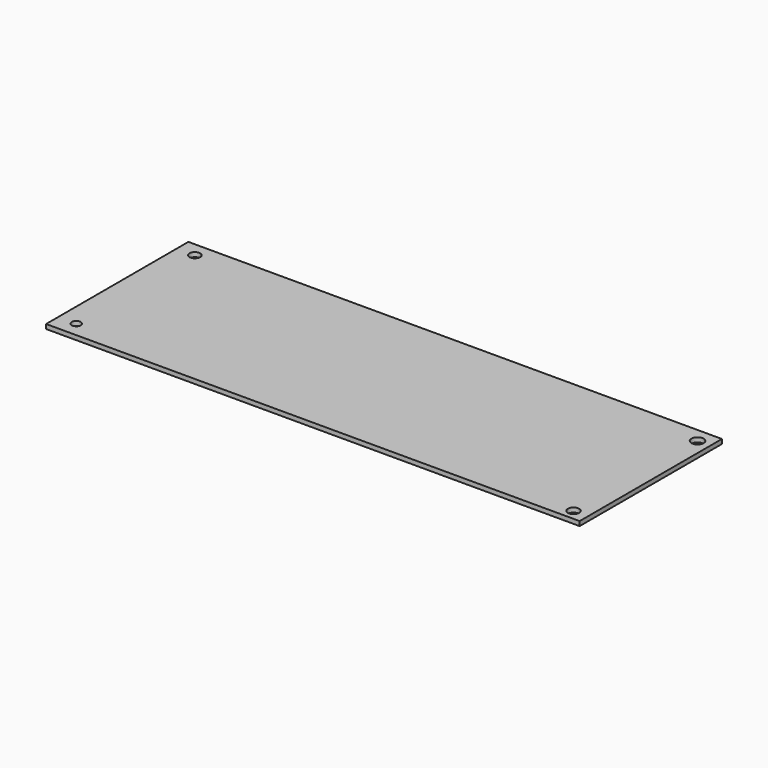
from build123d import *

# Parameters (mm, degrees)
F0_W     = 762
F0_H     = 254
F1_DEPTH = 6.35
F2_R     = 7.604631
F2_R_2   = 6.476551
F2_R_3   = 8.048561
F2_R_4   = 8.714829
F3_DEPTH = 25.4


with BuildPart() as f1:
    # F0 (on Top) → F1 (new body)
    with BuildSketch(Plane.XY):
        with Locations((-50.086674, 5.050952)):
            Rectangle(F0_W, F0_H)
    extrude(amount=-F1_DEPTH)

    # F2 (on face) → F3 (cut)
    with BuildSketch(Plane.XY):
        with Locations((-405.299187, 111.415431)):
            Circle(F2_R)
        with Locations((-405.299187, -100.317143)):
            Circle(F2_R_2)
        with Locations((310.107797, -106.793664)):
            Circle(F2_R_3)
        with Locations((312.598765, 111.415431)):
            Circle(F2_R_4)
    extrude(amount=-F3_DEPTH, mode=Mode.SUBTRACT)


solid = f1.part
